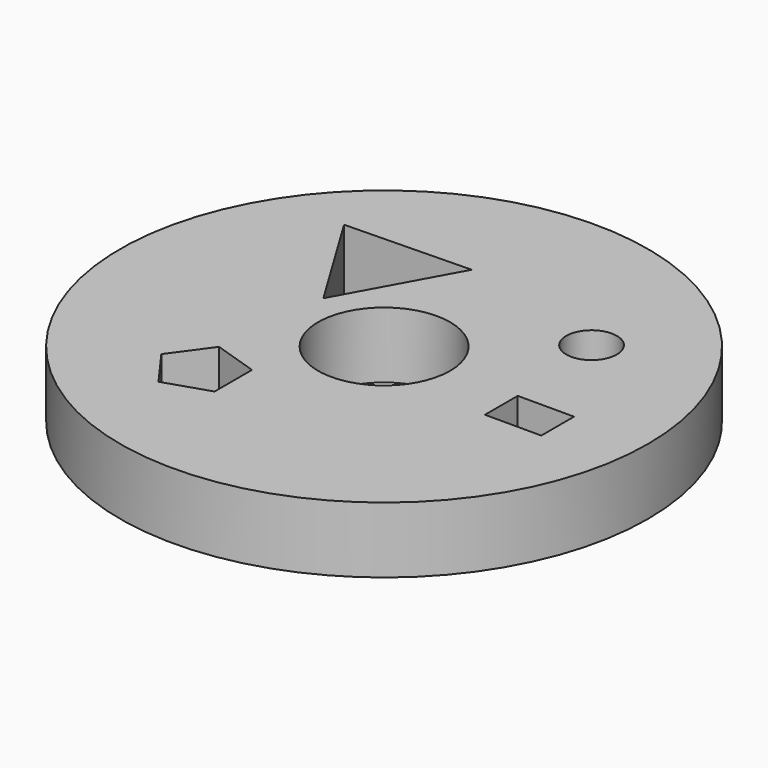
from build123d import *

# Parameters (mm, degrees)
F0_R     = 50.8
F0_R_2   = 12.7
F0_W     = 10.838795
F0_H     = 7.882758
F0_R_3   = 4.867285
F1_DEPTH = 6.35


with BuildPart() as f1:
    # F0 (on Top) → F1 (new body, symmetric)
    with BuildSketch(Plane.XY):
        Circle(F0_R)
        Polygon((-19.301308, -15.575219), (-10.737533, -18.357759), (-10.737533, -27.362245), (-19.301308, -30.144784), (-24.594012, -22.860002), align=None, mode=Mode.SUBTRACT)
        Circle(F0_R_2, mode=Mode.SUBTRACT)
        with Locations((31.139625, -3.941379)):
            Rectangle(F0_W, F0_H, mode=Mode.SUBTRACT)
        Polygon((-29.459082, 27.195517), (-5.329002, 27.726336), (-16.934339, 6.563665), align=None, mode=Mode.SUBTRACT)
        with Locations((24.079654, 19.813703)):
            Circle(F0_R_3, mode=Mode.SUBTRACT)
    extrude(amount=F1_DEPTH, both=True)


solid = f1.part
